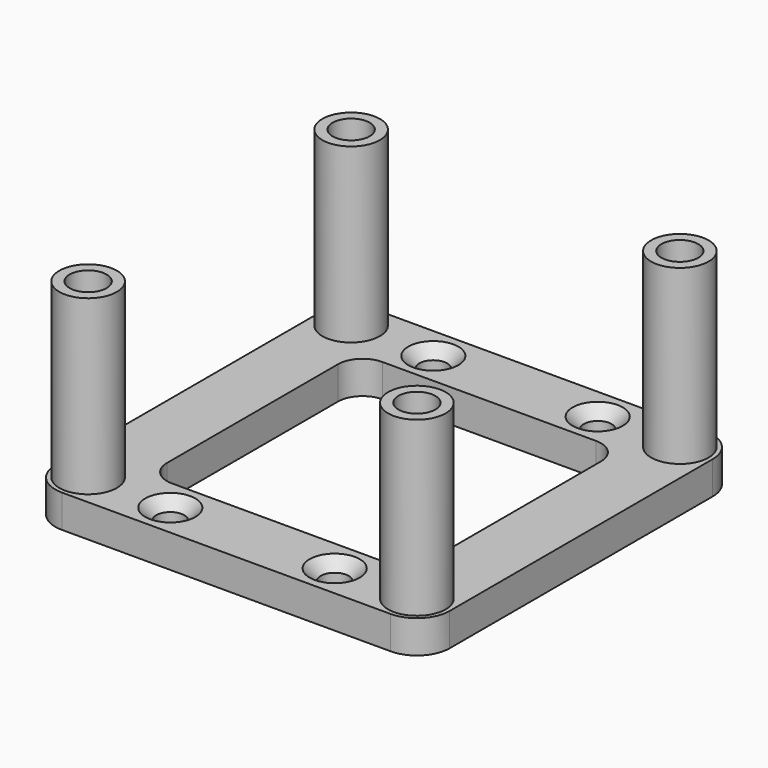
from build123d import *

# Parameters (mm, degrees)
SKETCH001_R                  = 3.5
PAD001_DEPTH                 = 25
SKETCH003_W                  = 48
SKETCH003_H                  = 48
SKETCH003_W_2                = 32
SKETCH003_H_2                = 32
PAD002_DEPTH                 = 4
SKETCH002_R                  = 2.25
POCKET_DEPTH                 = 7
SKETCH001_LINEARPATTERN_2_R  = 3.5
PAD001_LINEARPATTERN_2_DEPTH = 25
SKETCH002_LINEARPATTERN_2_R  = 2.25
POCKET_LINEARPATTERN_2_DEPTH = 7
LINEARPATTERN001_COUNT       = 2
LINEARPATTERN001_PITCH       = 40
HOLE_D                       = 3.4
HOLE_DEPTH                   = 25
HOLE_CSINK_D                 = 6.1
HOLE_CSINK_ANGLE             = 90
FILLET_R                     = 4
FILLET001_R                  = 3


with BuildPart() as part:
    # Sketch001 → Pad001 (new body)
    with BuildSketch(Plane.XY):
        Circle(SKETCH001_R)
    pad001 = extrude(amount=PAD001_DEPTH)

    # Sketch003 → Pad002 (join)
    with BuildSketch(Plane.XY):
        with Locations((20, 20)):
            Rectangle(SKETCH003_W, SKETCH003_H)
        with Locations((20, 20)):
            Rectangle(SKETCH003_W_2, SKETCH003_H_2, mode=Mode.SUBTRACT)
    extrude(amount=PAD002_DEPTH)

    # Sketch002 → Pocket (cut)
    with BuildSketch(Plane.XY.offset(25)):
        Circle(SKETCH002_R)
    pocket = extrude(amount=-POCKET_DEPTH, mode=Mode.SUBTRACT)

    # Sketch001 LinearPattern 2 → Pad001 LinearPattern 2 (add)
    with BuildSketch(Plane(origin=(40, 0, 0), x_dir=(1, 0, 0), z_dir=(0, 0, 1))):
        Circle(SKETCH001_LINEARPATTERN_2_R)
    pad001_linearpattern_2 = extrude(amount=PAD001_LINEARPATTERN_2_DEPTH)

    # Sketch002 LinearPattern 2 → Pocket LinearPattern 2 (cut)
    with BuildSketch(Plane(origin=(40, 0, 25), x_dir=(1, 0, 0), z_dir=(0, 0, 1))):
        Circle(SKETCH002_LINEARPATTERN_2_R)
    pocket_linearpattern_2 = extrude(amount=-POCKET_LINEARPATTERN_2_DEPTH, mode=Mode.SUBTRACT)

    # LinearPattern001: Pad001, Pocket, Pad001 LinearPattern 2, Pocket LinearPattern 2 ×2
    with Locations(*[(0, i * LINEARPATTERN001_PITCH, 0) for i in range(1, LINEARPATTERN001_COUNT)]):
        add(pad001)
        add(pocket, mode=Mode.SUBTRACT)
        add(pad001_linearpattern_2)
        add(pocket_linearpattern_2, mode=Mode.SUBTRACT)

    # Hole
    with Locations(Plane.XY.offset(4)):
        with Locations((10, 40), (30, 40), (30, 0), (10, 0)):
            CounterSinkHole(HOLE_D / 2, HOLE_CSINK_D / 2, depth=HOLE_DEPTH, counter_sink_angle=HOLE_CSINK_ANGLE)

    # Fillet
    fillet_edges = [part.edges().sort_by_distance(p)[0] for p in [
        (-4, -4, 2),
        (44, -4, 2),
        (-4, 44, 2),
        (44, 44, 2),
    ]]
    fillet(fillet_edges, radius=FILLET_R)

    # Fillet001
    fillet001_edges = [part.edges().sort_by_distance(p)[0] for p in [
        (4, 36, 2),
        (36, 36, 2),
        (36, 4, 2),
        (4, 4, 2),
    ]]
    fillet(fillet001_edges, radius=FILLET001_R)


solid = part.part
